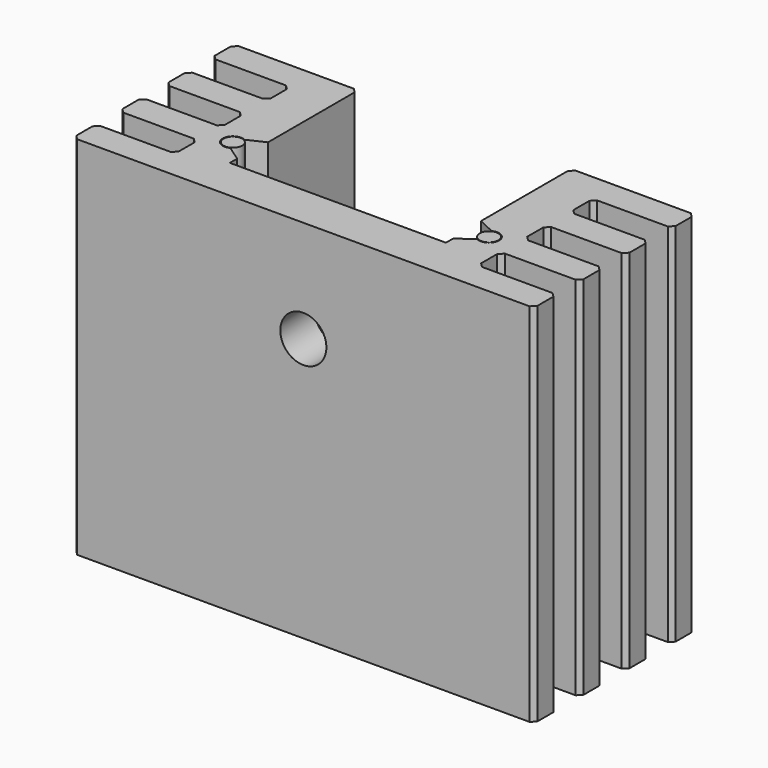
from build123d import *

# Parameters (mm, degrees)
PAD_DEPTH       = 25.4
SKETCH001_R     = 1.6
POCKET_DEPTH    = 14.001
CHAMFER_SIZE    = 0.3
CHAMFER001_SIZE = 0.3
CHAMFER002_SIZE = 0.3
CHAMFER003_SIZE = 0.3
CHAMFER004_SIZE = 0.3
SKETCH002_R     = 0.65
PAD001_DEPTH    = 28.4
FILLET_R        = 0.4
SKETCH003_R     = 0.65
PAD002_DEPTH    = 28.4
FILLET001_R     = 0.4


with BuildPart() as body:
    # Sketch → Pad (new body)
    with BuildSketch(Plane.XY):
        with BuildLine():
            Line((-16, 0), (16, 0))
            Line((16, 0), (16, 2))
            Line((16, 2), (10.5, 2))
            Line((10.5, 2), (10.5, 4))
            Line((10.5, 4), (16, 4))
            Line((16, 4), (16, 6))
            Line((16, 6), (10.5, 6))
            Line((10.5, 6), (10.5, 8))
            Line((10.5, 8), (16, 8))
            Line((16, 8), (16, 10))
            Line((16, 10), (10.5, 10))
            Line((10.5, 10), (10.5, 12))
            Line((10.5, 12), (16, 12))
            Line((16, 12), (16, 14))
            Line((16, 14), (7.395549, 14))
            Line((7.395549, 14), (7.395549, 6.18))
            Line((8.569968, 5.622559), (7.395549, 6.18))
            ThreePointArc((8.569968, 4.377441), (9.59, 5), (8.569968, 5.622559))
            Line((8.569968, 4.377441), (7.5, 3.639086))
            Line((7.5, 3.639086), (7.5, 3))
            Line((-7.5, 3), (7.5, 3))
            Line((-7.5, 3.639086), (-7.5, 3))
            Line((-8.569968, 4.377441), (-7.5, 3.639086))
            ThreePointArc((-8.569968, 5.622559), (-9.59, 5), (-8.569968, 4.377441))
            Line((-8.569968, 5.622559), (-7.395549, 6.18))
            Line((-7.395549, 14), (-7.395549, 6.18))
            Line((-16, 14), (-7.395549, 14))
            Line((-16, 12), (-16, 14))
            Line((-10.5, 12), (-16, 12))
            Line((-10.5, 10), (-10.5, 12))
            Line((-16, 10), (-10.5, 10))
            Line((-16, 8), (-16, 10))
            Line((-10.5, 8), (-16, 8))
            Line((-10.5, 6), (-10.5, 8))
            Line((-16, 6), (-10.5, 6))
            Line((-16, 4), (-16, 6))
            Line((-10.5, 4), (-16, 4))
            Line((-10.5, 2), (-10.5, 4))
            Line((-16, 2), (-10.5, 2))
            Line((-16, 0), (-16, 2))
        make_face()
    extrude(amount=PAD_DEPTH)

    # Sketch001 (on Face2 of Pad) → Pocket (cut, through all)
    with BuildSketch(Plane.XZ):
        with Locations((0, 18.3)):
            Circle(SKETCH001_R)
    extrude(amount=-POCKET_DEPTH, mode=Mode.SUBTRACT)

    # Chamfer
    chamfer_edges = [body.edges().sort_by_distance(p)[0] for p in [
        (-16, 14, 12.7),
        (-16, 12, 12.7),
        (-16, 10, 12.7),
        (-16, 8, 12.7),
        (-16, 6, 12.7),
        (-16, 4, 12.7),
        (-16, 2, 12.7),
        (-16, 0, 12.7),
    ]]
    chamfer(chamfer_edges, length=CHAMFER_SIZE)

    # Chamfer001
    chamfer001_edges = [body.edges().sort_by_distance(p)[0] for p in [
        (-10.5, 12, 12.7),
        (-10.5, 8, 12.7),
        (-10.5, 4, 12.7),
        (-10.5, 10, 12.7),
        (-10.5, 6, 12.7),
        (-10.5, 2, 12.7),
    ]]
    chamfer(chamfer001_edges, length=CHAMFER001_SIZE)

    # Chamfer002
    chamfer002_edges = [body.edges().sort_by_distance(p)[0] for p in [
        (16, 14, 12.7),
        (16, 12, 12.7),
        (16, 10, 12.7),
        (16, 8, 12.7),
        (16, 6, 12.7),
        (16, 4, 12.7),
        (16, 2, 12.7),
        (16, 0, 12.7),
    ]]
    chamfer(chamfer002_edges, length=CHAMFER002_SIZE)

    # Chamfer003
    chamfer003_edges = [body.edges().sort_by_distance(p)[0] for p in [
        (10.5, 2, 12.7),
        (10.5, 6, 12.7),
        (10.5, 10, 12.7),
        (10.5, 4, 12.7),
        (10.5, 8, 12.7),
        (10.5, 12, 12.7),
    ]]
    chamfer(chamfer003_edges, length=CHAMFER003_SIZE)

    # Chamfer004
    chamfer004_edges = [body.edges().sort_by_distance(p)[0] for p in [
        (-7.395549, 14, 12.7),
        (7.395549, 14, 12.7),
    ]]
    chamfer(chamfer004_edges, length=CHAMFER004_SIZE)


with BuildPart() as body001:
    # Sketch002 → Pad001 (new body)
    with BuildSketch(Plane.XY.offset(-3)):
        with Locations((-8.89, 5)):
            Circle(SKETCH002_R)
    extrude(amount=PAD001_DEPTH)

    # Fillet
    fillet_edges = [body001.edges().sort_by_distance(p)[0] for p in [
        (-9.54, 5, -3),
    ]]
    fillet(fillet_edges, radius=FILLET_R)


with BuildPart() as body002:
    # Sketch003 → Pad002 (new body)
    with BuildSketch(Plane.XY.offset(-3)):
        with Locations((8.89, 5)):
            Circle(SKETCH003_R)
    extrude(amount=PAD002_DEPTH)

    # Fillet001
    fillet001_edges = [body002.edges().sort_by_distance(p)[0] for p in [
        (8.24, 5, -3),
    ]]
    fillet(fillet001_edges, radius=FILLET001_R)


solid = Compound([body.part, body001.part, body002.part])
